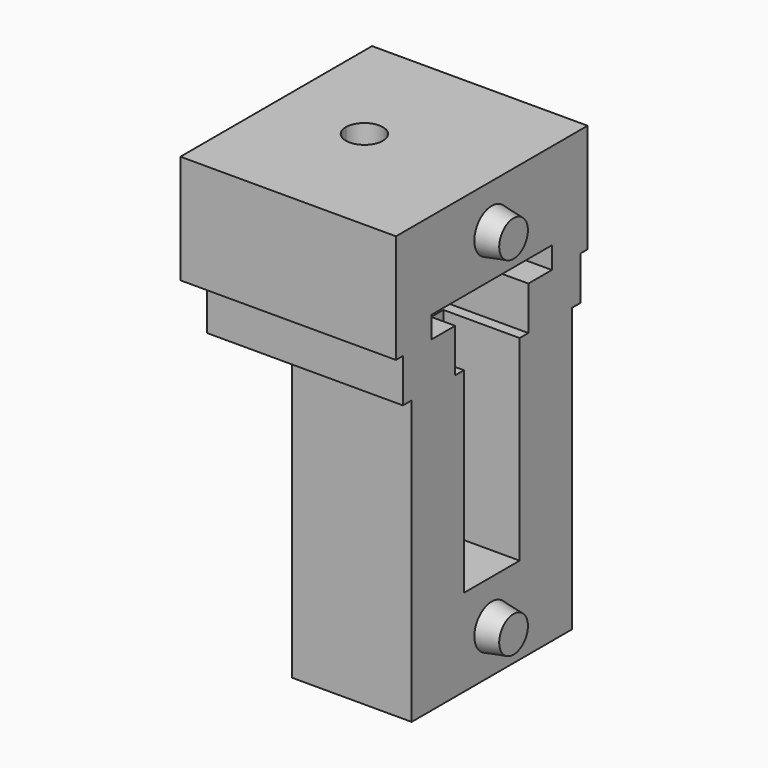
from build123d import *

# Parameters (mm, degrees)
F0_W        = 55
F0_H        = 46
F1_DEPTH    = 65
F2_W        = 35
F2_H        = 16
F3_DEPTH    = 45
F4_W        = 90
F4_H        = 51
F5_DEPTH    = 10
F6_W        = 40
F6_H        = 21
F7_DEPTH    = 10
F8_R        = 2
F9_W        = 99
F9_H        = 55
F10_DEPTH   = 25
F11_W       = 79
F11_H       = 34.5
F11_W_2     = 82.297604531
F11_H_2     = 1.4667510986
F12_DEPTH   = 5
F13_R       = 2
F14_R       = 2
F15_R       = 2
F16_R       = 2
F18_DEPTH   = 100
F19_R       = 4.25
F20_DEPTH   = 5
F21_W       = 144.5901691914
F21_H       = 163.5245941579
F10_FACE1_W = 55
F10_FACE1_H = 25
F1_FACE1_W  = 46
F1_FACE1_H  = 65
F22_DEPTH   = 49.501
F23_R       = 5
F24_DEPTH   = 5
F24_TAPER   = 10


with BuildPart() as f1:
    # F0 (on Top) → F1 (new body)
    with BuildSketch(Plane.XY):
        Rectangle(F0_W, F0_H)
    extrude(amount=F1_DEPTH)

    # F2 (on face) → F3 (cut)
    with BuildSketch(Plane.XY.offset(65)):
        Rectangle(F2_W, F2_H)
    extrude(amount=-F3_DEPTH, mode=Mode.SUBTRACT)

    # F4 (on face) → F5 (join)
    with BuildSketch(Plane.XY.offset(65)):
        Rectangle(F4_W, F4_H)
    extrude(amount=F5_DEPTH)

    # F6 (on face) → F7 (cut)
    with BuildSketch(Plane(origin=(0, 0, 65), x_dir=(1, 0, 0), z_dir=(0, 0, -1))):
        Rectangle(F6_W, F6_H)
    extrude(amount=-F7_DEPTH, mode=Mode.SUBTRACT)

    # F8
    f8_edges = [f1.edges().sort_by_distance(p)[0] for p in [
        (-20, -10.5, 70),
        (-20, 10.5, 70),
        (20, 10.5, 70),
        (20, -10.5, 70),
    ]]
    fillet(f8_edges, radius=F8_R)

    # F9 (on face) → F10 (join)
    with BuildSketch(Plane.XY.offset(75)):
        Rectangle(F9_W, F9_H)
    extrude(amount=F10_DEPTH)

    # F11 (on face) → F12 (cut)
    with BuildSketch(Plane(origin=(0, 0, 75), x_dir=(1, 0, 0), z_dir=(0, 0, -1))):
        Rectangle(F11_W, F11_H)
        with Locations((-69.0755546093, -53.2094612718)):
            Rectangle(F11_W_2, F11_H_2)
    extrude(amount=-F12_DEPTH, mode=Mode.SUBTRACT)

    # F13
    f13_edges = [f1.edges().sort_by_distance(p)[0] for p in [
        (-39.5, 17.25, 77.5),
    ]]
    fillet(f13_edges, radius=F13_R)

    # F14
    f14_edges = [f1.edges().sort_by_distance(p)[0] for p in [
        (-39.5, -17.25, 77.5),
    ]]
    fillet(f14_edges, radius=F14_R)

    # F15
    f15_edges = [f1.edges().sort_by_distance(p)[0] for p in [
        (39.5, -17.25, 77.5),
    ]]
    fillet(f15_edges, radius=F15_R)

    # F16
    f16_edges = [f1.edges().sort_by_distance(p)[0] for p in [
        (39.5, 17.25, 77.5),
    ]]
    fillet(f16_edges, radius=F16_R)

    # F17 (on face) → F18 (cut, symmetric)
    with BuildSketch(Plane(origin=(0, 0, 80), x_dir=(1, 0, 0), z_dir=(0, 0, -1))):
        with BuildLine():
            ThreePointArc((-33.5031947748, -0.0268816754), (-29.2398388853, -4.2499787461), (-25.0032797903, 0))
            ThreePointArc((-25.0032797903, 0), (-29.2667206952, 4.2499787461), (-33.5031947748, -0.0268816754))
        make_face()
    extrude(amount=F18_DEPTH, both=True, mode=Mode.SUBTRACT)

    # F19 (on face) → F20 (join)
    with BuildSketch(Plane(origin=(0, 0, 80), x_dir=(1, 0, 0), z_dir=(0, 0, -1))):
        with Locations((29.5, 0)):
            Circle(F19_R)
    extrude(amount=F20_DEPTH)

    # F21 (on Right) + F10_face1 (on face) + F1_face1 (on face) → F22 (cut, through all)
    with BuildSketch(Plane.YZ):
        with Locations((-4.733607173, 21.3217232376)):
            Rectangle(F21_W, F21_H)
    with BuildSketch(Plane(origin=(49.5, 0, 87.5), x_dir=(0, 1, 0), z_dir=(1, 0, 0))):
        Rectangle(F10_FACE1_W, F10_FACE1_H)
    with BuildSketch(Plane(origin=(27.5, 0, 32.5), x_dir=(0, 1, 0), z_dir=(1, 0, 0))):
        Rectangle(F1_FACE1_W, F1_FACE1_H)
    extrude(amount=F22_DEPTH, mode=Mode.SUBTRACT)

    # F23 (on face) → F24 (join)
    with BuildSketch(Plane.YZ):
        with Locations((0, 10)):
            Circle(F23_R)
        with Locations((0, 90)):
            Circle(F23_R)
    extrude(amount=F24_DEPTH, taper=F24_TAPER)


solid = f1.part
